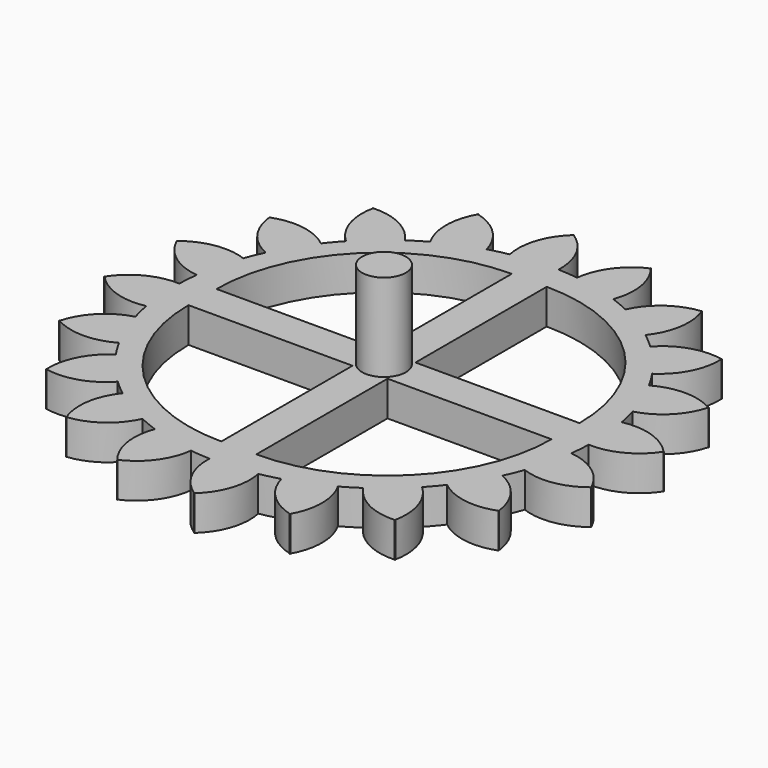
from build123d import *

# Parameters (mm, degrees)
F0_R     = 30.48
F1_DEPTH = 5.08
F3_DEPTH = 5.08
F4_COUNT = 20
F6_DEPTH = 5.081
F7_R     = 3.175
F8_DEPTH = 12.7


with BuildPart() as f1:
    # F0 (on Top) → F1 (new body)
    with BuildSketch(Plane.XY):
        Circle(F0_R)
    extrude(amount=F1_DEPTH)

    # F2 (on face) → F3 (join, through all)
    with BuildSketch(Plane.XY.offset(5.08)):
        with BuildLine():
            Line((-5.7019906833, 29.9389965966), (0.9482987996, 30.4623857298))
            ThreePointArc((0.9482987996, 30.4623857298), (-0.0033837458, 34.8376195512), (-3.0033778465, 38.1615338182))
            ThreePointArc((-3.0033778465, 38.1615338182), (-5.4464622915, 34.4092399792), (-5.7019906833, 29.9389965966))
        make_face()
    extrude(amount=-F3_DEPTH)

    # F2 (on face) → F3, piece 2 (join, through all)
    with BuildSketch(Plane.XY.offset(5.08)):
        with BuildLine():
            ThreePointArc((-3.0512374014, 38.1924324304), (-3.0272823561, 38.1770222623), (-3.0033778465, 38.1615338182))
            ThreePointArc((-3.0033778465, 38.1615338182), (-2.9821905676, 38.180571063), (-2.96094113, 38.1995389011))
            Line((-2.96094113, 38.1995389011), (-3.0512374014, 38.1924324304))
        make_face()
    extrude(amount=-F3_DEPTH)

    # F4: F1 ×20 about axis
    f4_axis = Axis((0, 0, 5.08), (0, 0, -1))


with BuildPart() as f1_1:
    add(f1.part)
    for i in range(1, F4_COUNT):
        add(f1.part.rotate(f4_axis, i * 360 / F4_COUNT))

    # F5 (on face) → F6 (cut, through all)
    with BuildSketch(Plane.XY.offset(5.08)):
        with BuildLine():
            Line((-26.3429005564, 2.54), (-2.54, 2.54))
            Line((-2.54, 2.54), (-2.54, 26.3429005564))
            ThreePointArc((-2.54, 26.3429005564), (-19.3711923953, 19.3711923953), (-26.3429005564, 2.54))
        make_face()
        with BuildLine():
            Line((-2.54, -2.54), (-26.3429005564, -2.54))
            ThreePointArc((-26.3429005564, -2.54), (-19.3711923953, -19.3711923953), (-2.54, -26.3429005564))
            Line((-2.54, -26.3429005564), (-2.54, -2.54))
        make_face()
        with BuildLine():
            Line((2.54, -2.54), (2.54, -26.3429005564))
            ThreePointArc((2.54, -26.3429005564), (19.3711923953, -19.3711923953), (26.3429005564, -2.54))
            Line((26.3429005564, -2.54), (2.54, -2.54))
        make_face()
        with BuildLine():
            Line((2.54, 2.54), (26.3429005564, 2.54))
            ThreePointArc((26.3429005564, 2.54), (19.3711923953, 19.3711923953), (2.54, 26.3429005564))
            Line((2.54, 26.3429005564), (2.54, 2.54))
        make_face()
    extrude(amount=-F6_DEPTH, mode=Mode.SUBTRACT)

    # F7 (on face) → F8 (join)
    with BuildSketch(Plane.XY.offset(5.08)):
        Circle(F7_R)
    extrude(amount=F8_DEPTH)


solid = f1_1.part
